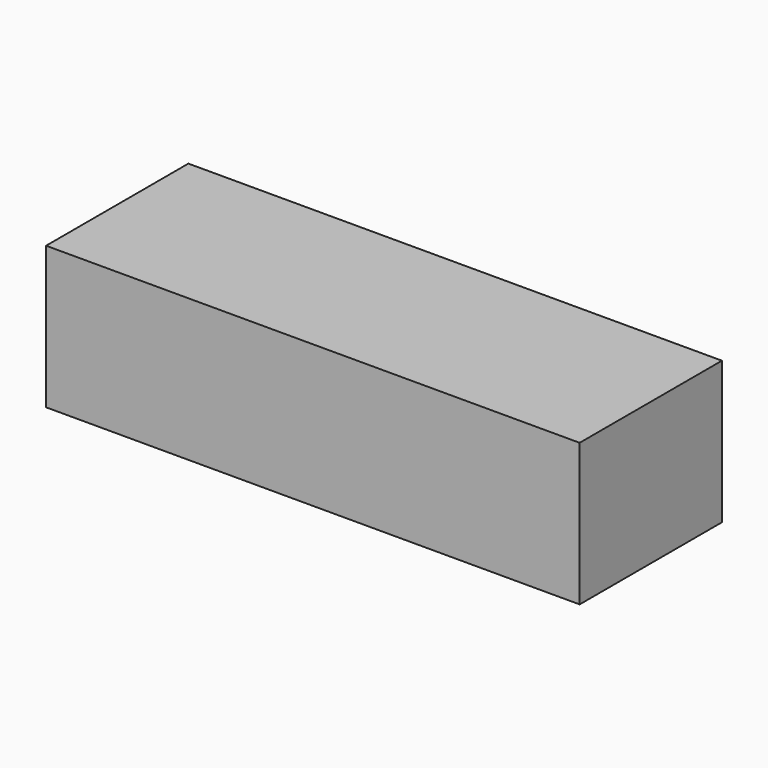
from build123d import *

# Parameters (mm, degrees)
F0_W     = 1524
F0_H     = 508
F1_DEPTH = 381
F2_W     = 1270
F2_H     = 381
F3_DEPTH = 254
F5_DEPTH = 1270
F6_W     = 1524
F6_H     = 508
F7_DEPTH = 25.4


with BuildPart() as f1:
    # F0 (on Top) → F1 (new body)
    with BuildSketch(Plane.XY):
        Rectangle(F0_W, F0_H)
    extrude(amount=F1_DEPTH)

    # F2 (on face) → F3 (cut)
    with BuildSketch(Plane(origin=(0, 0, 0), x_dir=(1, 0, 0), z_dir=(0, 0, -1))):
        Rectangle(F2_W, F2_H)
    extrude(amount=-F3_DEPTH, mode=Mode.SUBTRACT)

    # F4 (on face) → F5 (join, through all)
    with BuildSketch(Plane(origin=(635, 0, 0), x_dir=(0, -1, 0), z_dir=(-1, 0, 0))):
        with BuildLine():
            Line((-101.6, 254), (-190.5, 254))
            Line((-190.5, 254), (-190.5, 165.1))
            ThreePointArc((-190.5, 165.1), (-146.05, 209.55), (-101.6, 165.1))
            Line((-101.6, 165.1), (-101.6, 254))
        make_face()
    extrude(amount=F5_DEPTH)

    # F6 (on face) → F7 (join)
    with BuildSketch(Plane.XY.offset(381)):
        Rectangle(F6_W, F6_H)
    extrude(amount=F7_DEPTH)


solid = f1.part
